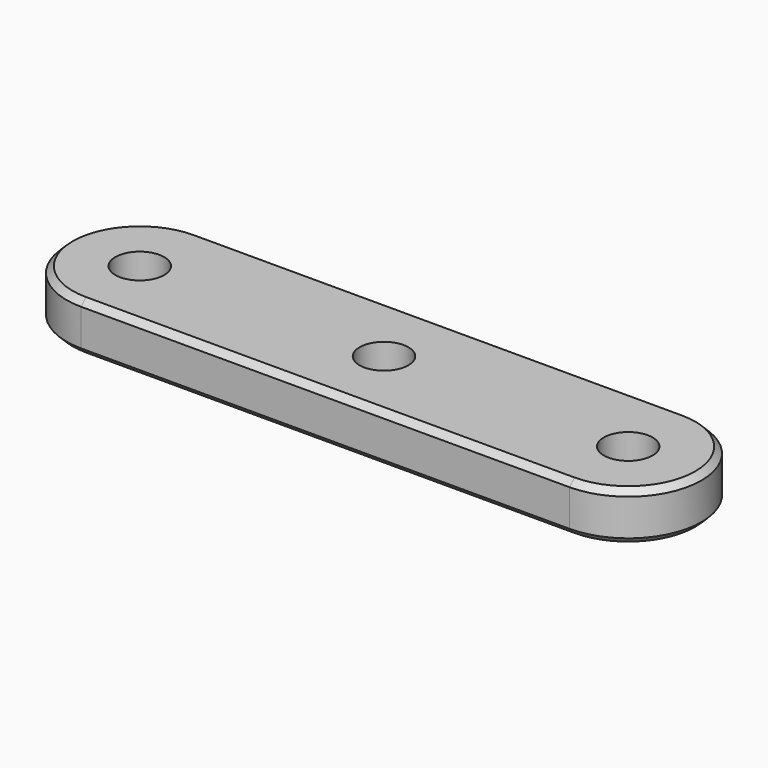
from build123d import *

# Parameters (mm, degrees)
F0_R     = 2
F1_DEPTH = 4
F2_SIZE  = 0.5


with BuildPart() as f1:
    # F0 (on Top) → F1 (new body)
    with BuildSketch(Plane.XY):
        with BuildLine():
            Line((20, 6), (-20, 6))
            ThreePointArc((-20, 6), (-26, 0), (-20, -6))
            Line((-20, -6), (20, -6))
            ThreePointArc((20, -6), (26, 0), (20, 6))
        make_face()
        with Locations((-20, 0)):
            Circle(F0_R, mode=Mode.SUBTRACT)
        Circle(F0_R, mode=Mode.SUBTRACT)
        with Locations((20, 0)):
            Circle(F0_R, mode=Mode.SUBTRACT)
    extrude(amount=F1_DEPTH)

    # F2
    f2_edges = [f1.edges().sort_by_distance(p)[0] for p in [
        (-26, 0, 4),
        (26, 0, 0),
    ]]
    chamfer(f2_edges, length=F2_SIZE)


solid = f1.part
